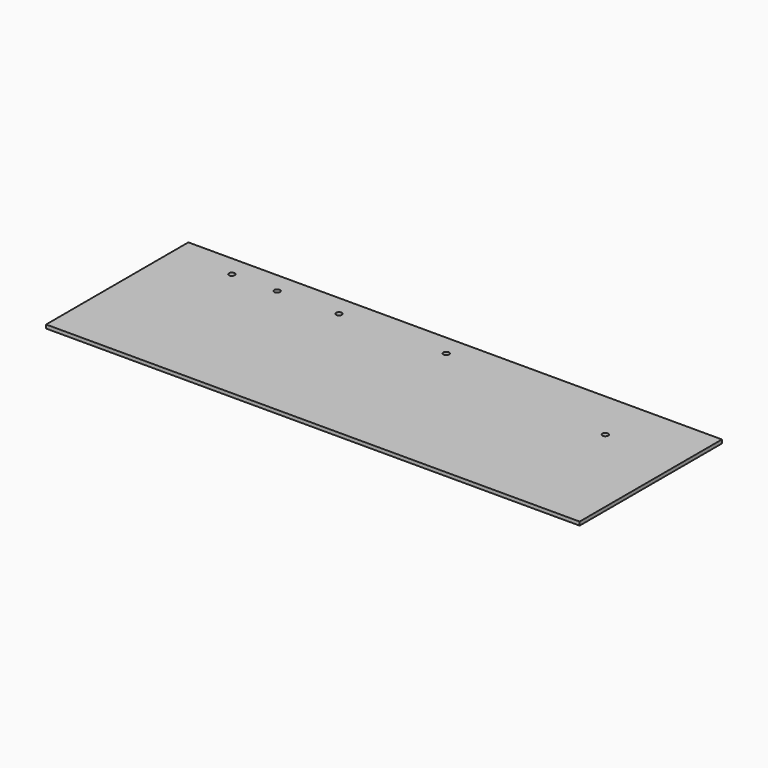
from build123d import *

# Parameters (mm, degrees)
F0_W     = 50.8
F0_H     = 25.4
F1_DEPTH = 8.73125


with BuildPart() as f1:
    # F0 (on Top) → F1 (new body)
    with BuildSketch(Plane.XY):
        with BuildLine():
            Line((-596.9, -190.5), (647.7, -190.5))
            Line((647.7, -190.5), (647.7, 168.389565))
            Line((647.7, 168.389565), (469.465175, 120.631687))
            ThreePointArc((469.465175, 120.631687), (469.643426, 119.735562), (469.703183, 118.823836))
            ThreePointArc((469.703183, 118.823836), (463.629909, 111.898594), (455.971191, 117.015985))
            Line((455.971191, 117.015985), (-596.9, -165.1))
            Line((-596.9, -165.1), (-596.9, -190.5))
        make_face()
        with Locations((-622.3, -177.8)):
            Rectangle(F0_W, F0_H)
        with BuildLine():
            ThreePointArc((-494.632267, 190.5), (-505.869466, 196.041573), (-503.425118, 183.753008))
            ThreePointArc((-503.425118, 183.753008), (-497.365069, 184.958427), (-494.632267, 190.5))
        make_face()
        with BuildLine():
            ThreePointArc((-384.609244, 190.5), (-395.086744, 196.549187), (-395.086744, 184.450813))
            ThreePointArc((-395.086744, 184.450813), (-388.101744, 184.450813), (-384.609244, 190.5))
        make_face()
        with BuildLine():
            ThreePointArc((-234.315, 190.5), (-243.973044, 196.953299), (-246.239141, 185.560859))
            ThreePointArc((-246.239141, 185.560859), (-238.626956, 184.046701), (-234.315, 190.5))
        make_face()
        with BuildLine():
            ThreePointArc((26.002267, 190.5), (17.209416, 197.246992), (12.96808, 187.0075))
            ThreePointArc((12.96808, 187.0075), (20.825118, 183.753008), (26.002267, 190.5))
        make_face()
        with BuildLine():
            Line((469.465175, 120.631687), (647.7, 168.389565))
            Line((647.7, 168.389565), (647.7, 190.5))
            Line((647.7, 190.5), (647.7, 241.3))
            Line((647.7, 241.3), (-647.7, 241.3))
            Line((-647.7, 241.3), (-647.7, 190.5))
            Line((-647.7, 190.5), (-647.7, -165.1))
            Line((-647.7, -165.1), (-596.9, -165.1))
            Line((-596.9, -165.1), (455.971191, 117.015985))
            ThreePointArc((455.971191, 117.015985), (460.910332, 125.570828), (469.465175, 120.631687))
        make_face()
        with BuildLine():
            ThreePointArc((-494.632267, 190.5), (-497.365069, 184.958427), (-503.425118, 183.753008))
            ThreePointArc((-503.425118, 183.753008), (-505.869466, 196.041573), (-494.632267, 190.5))
        make_face(mode=Mode.SUBTRACT)
        with BuildLine():
            ThreePointArc((-384.609244, 190.5), (-388.101744, 184.450813), (-395.086744, 184.450813))
            ThreePointArc((-395.086744, 184.450813), (-395.086744, 196.549187), (-384.609244, 190.5))
        make_face(mode=Mode.SUBTRACT)
        with BuildLine():
            ThreePointArc((-234.315, 190.5), (-238.626956, 184.046701), (-246.239141, 185.560859))
            ThreePointArc((-246.239141, 185.560859), (-243.973044, 196.953299), (-234.315, 190.5))
        make_face(mode=Mode.SUBTRACT)
        with BuildLine():
            ThreePointArc((26.002267, 190.5), (20.825118, 183.753008), (12.96808, 187.0075))
            ThreePointArc((12.96808, 187.0075), (17.209416, 197.246992), (26.002267, 190.5))
        make_face(mode=Mode.SUBTRACT)
    extrude(amount=F1_DEPTH)


solid = f1.part
